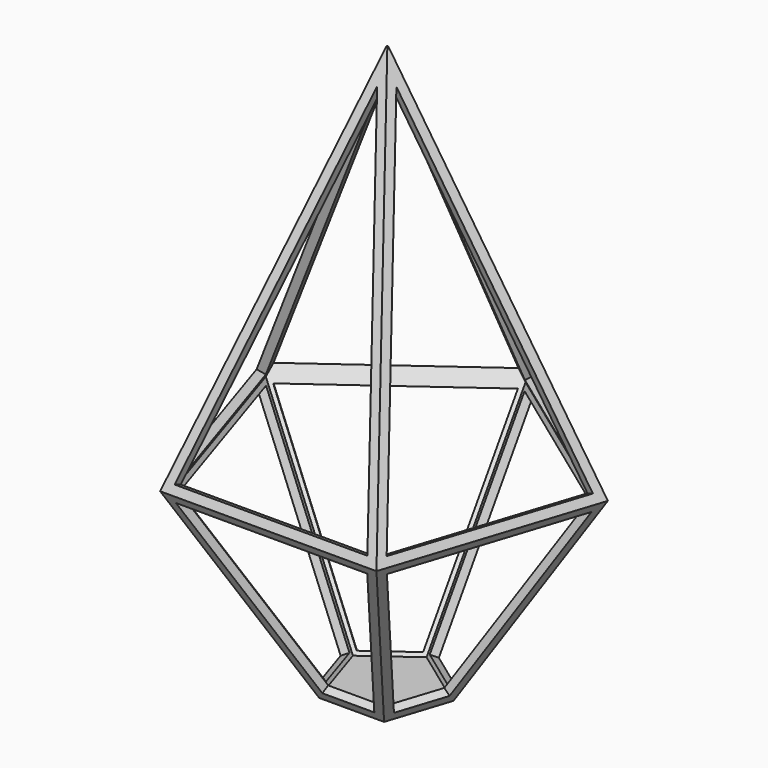
from build123d import *

# Parameters (mm, degrees)
F7_T      = -0.5
F12_DEPTH = 1
F13_DEPTH = 1
F14_DEPTH = 1
F15_DEPTH = 1
F21_DEPTH = 1
F22_DEPTH = 1
F23_DEPTH = 1
F24_DEPTH = 1
F25_DEPTH = 1


with BuildPart() as f3:
    # F0 (on Top) → F3 section 0
    with BuildSketch(Plane.XY):
        Polygon((-6.4983939247, -8.94427191), (6.4983939247, -8.94427191), (10.5146222424, 3.416407865), (0, 11.05572809), (-10.5146222424, 3.416407865), align=None)
    # F2 (on offset) → F3 section 1
    with BuildSketch(Plane.XY.offset(22)):
        Polygon((-0.0324919696, -0.0447213595), (0.0324919696, -0.0447213595), (0.0525731112, 0.0170820393), (0, 0.0552786405), (-0.0525731112, 0.0170820393), align=None)
    loft()

    # F3_face (on face) → F6 section 0
    with BuildSketch(Plane(origin=(0, 0, 0), x_dir=(1, 0, 0), z_dir=(0, 0, -1))):
        Polygon((6.4983939247, 8.94427191), (-6.4983939247, 8.94427191), (-10.5146222424, -3.416407865), (0, -11.05572809), (10.5146222424, -3.416407865), align=None)
    # F5 (on offset) → F6 section 1
    with BuildSketch(Plane.XY.offset(-12)):
        Polygon((-1.9495181774, -2.683281573), (1.9495181774, -2.683281573), (3.1543866727, 1.0249223595), (0, 3.316718427), (-3.1543866727, 1.0249223595), align=None)
    loft()

    # F7
    f7_openings = [f3.faces().sort_by_distance(p)[0] for p in [
        (-3.504961, 4.824165, 7.369818),
    ]]
    offset(amount=F7_T, openings=f7_openings)

    # F11 (on face) → F12 (cut)
    with BuildSketch(Plane(origin=(4.5179857008, 6.2184738355, 3.1093639582), x_dir=(-0.8385071819, 0.4873609368, 0.2436904249), z_dir=(0.5448905449, 0.7499774946, 0.375004069))):
        Polygon((4.8481299984, 17.7941495307), (-6.3276584478, -1.1927079159), (4.8481299984, -4.237623051), align=None)
    extrude(amount=-F12_DEPTH, mode=Mode.SUBTRACT)

    # F10 (on face) → F13 (cut)
    with BuildSketch(Plane(origin=(7.3102544246, -2.375245647, 3.1093639582), x_dir=(0.2636108968, 0.9580904348, 0.1121249924), z_dir=(0.8816514217, -0.2864659121, 0.375004069))):
        Polygon((2.2306848501, 18.3073801267), (-6.0894386648, -2.0929764337), (5.4086892422, -3.4939797203), align=None)
    extrude(amount=-F13_DEPTH, mode=Mode.SUBTRACT)

    # F8 (on face) → F14 (cut)
    with BuildSketch(Plane(origin=(-7.3102544246, -2.375245647, 3.1093639582), x_dir=(0.2636108968, -0.9580904348, -0.1121249924), z_dir=(-0.8816514217, -0.2864659121, 0.375004069))):
        Polygon((-2.2311449625, 18.3111563002), (-5.4098675893, -3.4951306933), (6.0908589153, -2.0938107774), align=None)
    extrude(amount=-F14_DEPTH, mode=Mode.SUBTRACT)

    # F9 (on face) → F15 (cut)
    with BuildSketch(Plane(origin=(0, -7.686456377, 3.1093639582), x_dir=(1, 0, 0), z_dir=(0, -0.9270231649, 0.375004069))):
        Polygon((0, 18.4427796713), (-5.7915834531, -2.8141383603), (5.7915834531, -2.8141383603), align=None)
    extrude(amount=-F15_DEPTH, mode=Mode.SUBTRACT)

    # F20 (on face) → F21 (cut)
    with BuildSketch(Plane(origin=(6.6863382316, -2.1725229871, -3.6681222707), x_dir=(0.2401975954, 0.9617386219, -0.1317722973), z_dir=(0.843188815, -0.2739686536, -0.4625730203))):
        Polygon((2.8605048602, -8.5273181822), (5.1487184249, 4.4116316912), (-6.2180731217, 2.7032133195), (-0.2274522358, -8.9914353091), align=None)
    extrude(amount=-F21_DEPTH, mode=Mode.SUBTRACT)

    # F16 (on face) → F22 (cut)
    with BuildSketch(Plane(origin=(4.1323842874, 5.6877390216, -3.6681222707), x_dir=(-0.8534838174, 0.4379434765, -0.2824373997), z_dir=(0.5211193466, 0.7172592471, -0.4625730203))):
        Polygon((4.3017839952, -7.8988795342), (4.3017839952, 5.240844403), (-6.5938117294, 1.5790637972), (1.3418342156, -8.893656412), align=None)
    extrude(amount=-F22_DEPTH, mode=Mode.SUBTRACT)

    # F19 (on face) → F23 (cut)
    with BuildSketch(Plane(origin=(0, -7.030432069, -3.6681222707), x_dir=(1, 0, 0), z_dir=(0, -0.8865811868, -0.4625730203))):
        Polygon((1.5613202534, -8.8577605806), (5.7472307114, 3.597378872), (-5.7472307114, 3.597378872), (-1.5613202534, -8.8577605806), align=None)
    extrude(amount=-F23_DEPTH, mode=Mode.SUBTRACT)

    # F18 (on face) → F24 (cut)
    with BuildSketch(Plane(origin=(-6.6863382316, -2.1725229871, -3.6681222707), x_dir=(0.2401975954, -0.9617386219, 0.1317722973), z_dir=(-0.843188815, -0.2739686536, -0.4625730203))):
        Polygon((0.2274522358, -8.9914353091), (6.2180731217, 2.7032133195), (-5.1487184249, 4.4116316912), (-2.8605048602, -8.5273181822), align=None)
    extrude(amount=-F24_DEPTH, mode=Mode.SUBTRACT)

    # F17 (on face) → F25 (cut)
    with BuildSketch(Plane(origin=(-4.1323842874, 5.6877390216, -3.6681222707), x_dir=(-0.8534838174, -0.4379434765, 0.2824373997), z_dir=(-0.5211193466, 0.7172592471, -0.4625730203))):
        Polygon((-1.3418342156, -8.893656412), (6.5938117294, 1.5790637972), (-4.3017839952, 5.240844403), (-4.3017839952, -7.8988795342), align=None)
    extrude(amount=-F25_DEPTH, mode=Mode.SUBTRACT)


solid = f3.part
